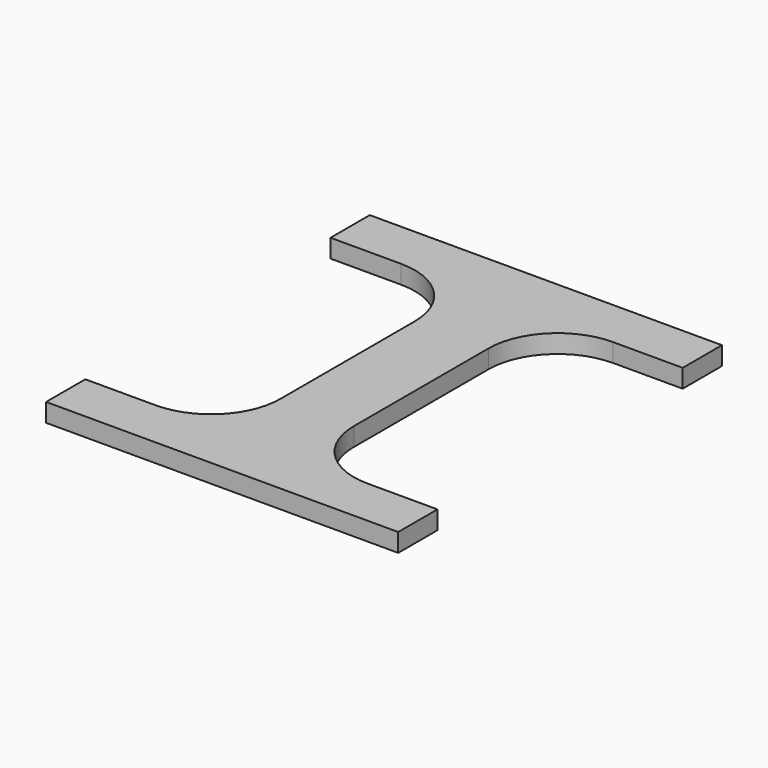
from build123d import *

# Parameters (mm, degrees)
F1_DEPTH = 3


with BuildPart() as f1:
    # F0 (on Top) → F1 (new body)
    with BuildSketch(Plane.XY):
        Polygon((-5.7017188274, 38.706463416), (6.2982811726, 38.706463416), (17.5918177567, 38.706463416), (28.9582414734, 38.706463416), (28.9582414734, 46.706463416), (-28.4831673192, 46.706463416), (-28.4831673192, 38.706463416), (-16.9952554114, 38.706463416), align=None)
        Polygon((6.2982811726, 27.4129268319), (6.2982811726, 38.706463416), (-5.7017188274, 38.706463416), (-5.7017188274, 27.4129268319), (-5.7017188274, 0), (-5.7017188274, -11.293536584), (6.2982811726, -11.293536584), (6.2982811726, 5e-10), align=None)
        with BuildLine():
            Line((-5.7017188274, 27.4129268319), (-5.7017188274, 38.706463416))
            Line((-5.7017188274, 38.706463416), (-16.9952554114, 38.706463416))
            ThreePointArc((-16.9952554114, 38.706463416), (-9.0095191092, 35.3986631341), (-5.7017188274, 27.4129268319))
        make_face()
        with BuildLine():
            Line((17.5918177567, 38.706463416), (6.2982811726, 38.706463416))
            Line((6.2982811726, 38.706463416), (6.2982811726, 27.4129268319))
            ThreePointArc((6.2982811726, 27.4129268319), (9.6060814545, 35.3986631341), (17.5918177567, 38.706463416))
        make_face()
        with BuildLine():
            ThreePointArc((17.5918177567, -11.293536584), (9.6060814544, -7.985736302), (6.2982811726, 5e-10))
            Line((6.2982811726, 5e-10), (6.2982811726, -11.293536584))
            Line((6.2982811726, -11.293536584), (17.5918177567, -11.293536584))
        make_face()
        with BuildLine():
            Line((-5.7017188274, -11.293536584), (-5.7017188274, 0))
            ThreePointArc((-5.7017188274, 0), (-9.0095190992, -7.9857362921), (-16.995255383, -11.293536584))
            Line((-16.995255383, -11.293536584), (-5.7017188274, -11.293536584))
        make_face()
        Polygon((28.9582414734, -19.293536584), (28.9582414734, -11.293536584), (17.5918177567, -11.293536584), (6.2982811726, -11.293536584), (-5.7017188274, -11.293536584), (-16.995255383, -11.293536584), (-28.4831673192, -11.293536584), (-28.4831673192, -19.293536584), align=None)
    extrude(amount=F1_DEPTH)


solid = f1.part
